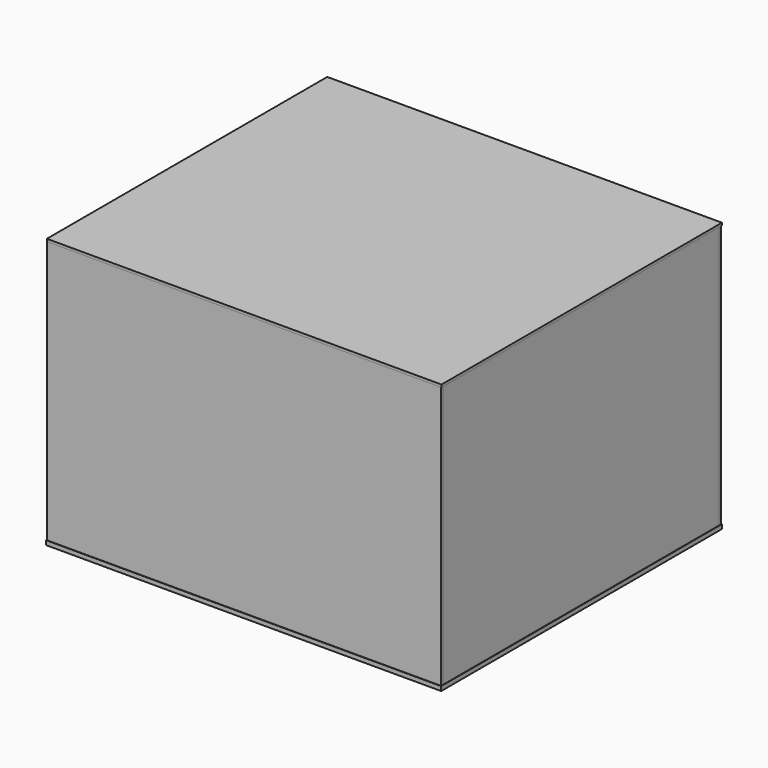
from build123d import *

# Parameters (mm, degrees)
F3_W      = 458.2
F3_H      = 407
F3_W_2    = 457.2
F3_H_2    = 406
F5_DEPTH  = 5
F7_DEPTH  = 304.8
F6_W      = 3
F6_H      = 400
F8_DEPTH  = 304.8
F9_DEPTH  = 3
F6_W_2    = 50
F6_H_2    = 299
F10_DEPTH = 3
F11_DEPTH = 3
F12_W     = 457.2
F12_H     = 3
F13_DEPTH = 3


with BuildPart() as f5:
    # F3 (on Top) → F5 (new body)
    with BuildSketch(Plane.XY):
        with Locations((-229.1, -203.5)):
            Rectangle(F3_W, F3_H)
        with Locations((-229.1, -203.5)):
            Rectangle(F3_W_2, F3_H_2, mode=Mode.SUBTRACT)
        with Locations((-229.1, -203.5)):
            Rectangle(F3_W_2, F3_H_2)
    extrude(amount=F5_DEPTH)


with BuildPart() as f7:
    # F6 (on face) → F7 (new body)
    with BuildSketch(Plane.XY.offset(5)):
        Polygon((-457.7, -3.5), (-457.7, -403.5), (-454.7, -403.5), (-454.7, -353), (-454.7, -3.5), align=None)
    extrude(amount=F7_DEPTH)


with BuildPart() as f7b:
    # F6 (on face) → F7, piece 2 (new body)
    with BuildSketch(Plane.XY.offset(5)):
        with Locations((-2, -203.5)):
            Rectangle(F6_W, F6_H)
    extrude(amount=F7_DEPTH)


with BuildPart() as f8:
    # F6 (on face) → F8 (new body)
    with BuildSketch(Plane.XY.offset(5)):
        Polygon((-457.7, -403.5), (-457.7, -406.5), (-0.5, -406.5), (-0.5, -403.5), (-3.5, -403.5), (-454.7, -403.5), align=None)
    extrude(amount=F8_DEPTH)


with BuildPart() as f8b:
    # F6 (on face) → F8, piece 2 (new body)
    with BuildSketch(Plane.XY.offset(5)):
        Polygon((-457.7, -0.5), (-457.7, -3.5), (-454.7, -3.5), (-3.5, -3.5), (-0.5, -3.5), (-0.5, -0.5), align=None)
    extrude(amount=F8_DEPTH)


with BuildPart() as f9:
    # F6 (on face) → F9 (new body)
    with BuildSketch(Plane.XY.offset(5)):
        Polygon((-229.35, -353), (-229.35, -403), (-4, -403), (-4, -353), (-54, -353), align=None)
    extrude(amount=F9_DEPTH)


with BuildPart() as f9b:
    # F6 (on face) → F9, piece 2 (new body)
    with BuildSketch(Plane.XY.offset(5)):
        Polygon((-4, -4), (-229.1, -4), (-229.1, -54), (-54, -54), (-4, -54), align=None)
    extrude(amount=F9_DEPTH)


with BuildPart() as f9c:
    # F6 (on face) → F9, piece 3 (new body)
    with BuildSketch(Plane.XY.offset(5)):
        with Locations((-429.2, -203.5)):
            Rectangle(F6_W_2, F6_H_2)
    extrude(amount=F9_DEPTH)


with BuildPart() as f10:
    # F6 (on face) → F10 (new body)
    with BuildSketch(Plane.XY.offset(5)):
        with Locations((-29, -203.5)):
            Rectangle(F6_W_2, F6_H_2)
    extrude(amount=F10_DEPTH)


with BuildPart() as f10b:
    # F6 (on face) → F10, piece 2 (new body)
    with BuildSketch(Plane.XY.offset(5)):
        Polygon((-404.2, -353), (-454.2, -353), (-454.2, -403), (-229.35, -403), (-229.35, -353), align=None)
    extrude(amount=F10_DEPTH)


with BuildPart() as f10c:
    # F6 (on face) → F10, piece 3 (new body)
    with BuildSketch(Plane.XY.offset(5)):
        Polygon((-454.2, -4), (-454.2, -54), (-404.2, -54), (-229.1, -54), (-229.1, -4), align=None)
    extrude(amount=F10_DEPTH)


with BuildPart() as f11:
    # F6 (on face) → F11 (new body)
    with BuildSketch(Plane.XY.offset(5)):
        Polygon((-404.2, -54), (-404.2, -353), (-229.35, -353), (-54, -353), (-54, -54), (-229.1, -54), align=None)
    extrude(amount=F11_DEPTH)


with BuildPart() as f13:
    # F12 (on face) → F13 (new body)
    with BuildSketch(Plane.XY.offset(309.8)):
        Polygon((-0.5, -403.5), (-0.5, -406.5), (0, -406.5), (0, 0), (-457.7, 0), (-457.7, -403.5), align=None)
        with Locations((-229.1, -405)):
            Rectangle(F12_W, F12_H)
    extrude(amount=F13_DEPTH)


solid = Compound([f5.part, f7.part, f7b.part, f8.part, f8b.part, f9.part, f9b.part, f9c.part, f10.part, f10b.part, f10c.part, f11.part, f13.part])
